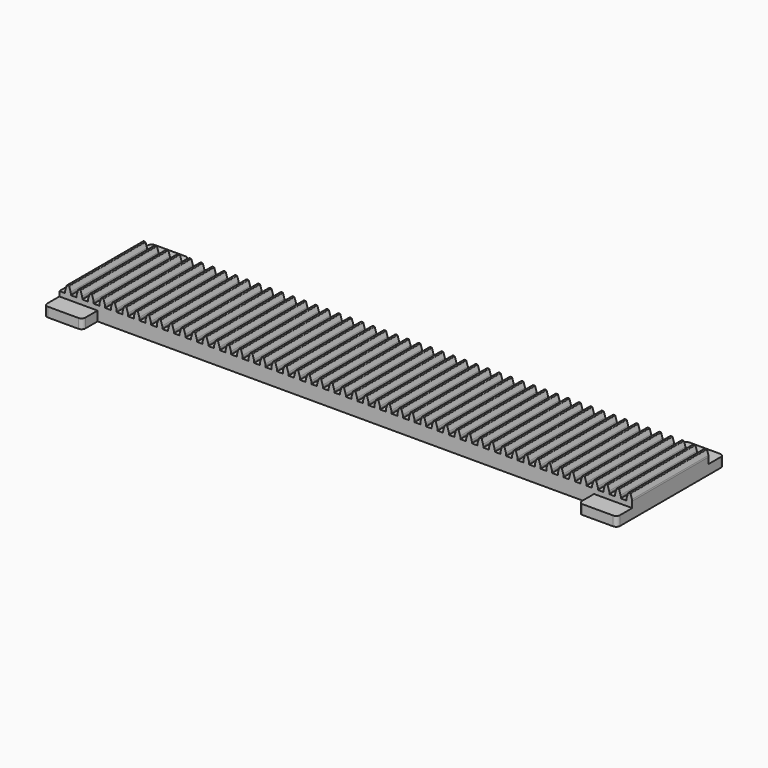
from build123d import *

# Parameters (mm, degrees)
F1_DEPTH = 127
F2_W     = 50.8
F2_H     = 12.7
F3_DEPTH = 25.4
F4_W     = 50.8
F4_H     = 12.7
F5_DEPTH = 25.4
F6_R     = 5.08


with BuildPart() as f1:
    # F0 (on Front) → F1 (new body)
    with BuildSketch(Plane.XZ):
        Polygon((7.62, 0), (0, 0), (0, -19.05), (762, -19.05), (762, 0), (754.38, 0), (746.76, 0), (739.14, 0), (731.52, 0), (723.9, 0), (716.28, 0), (708.66, 0), (701.04, 0), (693.42, 0), (685.8, 0), (678.18, 0), (670.56, 0), (662.94, 0), (655.32, 0), (647.7, 0), (640.08, 0), (632.46, 0), (624.84, 0), (617.22, 0), (609.6, 0), (601.98, 0), (594.36, 0), (586.74, 0), (579.12, 0), (571.5, 0), (563.88, 0), (556.26, 0), (548.64, 0), (541.02, 0), (533.4, 0), (525.78, 0), (518.16, 0), (510.54, 0), (502.92, 0), (495.3, 0), (487.68, 0), (480.06, 0), (472.44, 0), (464.82, 0), (457.2, 0), (449.58, 0), (441.96, 0), (434.34, 0), (426.72, 0), (419.1, 0), (411.48, 0), (403.86, 0), (396.24, 0), (388.62, 0), (381, 0), (373.38, 0), (365.76, 0), (358.14, 0), (350.52, 0), (342.9, 0), (335.28, 0), (327.66, 0), (320.04, 0), (312.42, 0), (304.8, 0), (297.18, 0), (289.56, 0), (281.94, 0), (274.32, 0), (266.7, 0), (259.08, 0), (251.46, 0), (243.84, 0), (236.22, 0), (228.6, 0), (220.98, 0), (213.36, 0), (205.74, 0), (198.12, 0), (190.5, 0), (182.88, 0), (175.26, 0), (167.64, 0), (160.02, 0), (152.4, 0), (144.78, 0), (137.16, 0), (129.54, 0), (121.92, 0), (114.3, 0), (106.68, 0), (99.06, 0), (91.44, 0), (83.82, 0), (76.2, 0), (68.58, 0), (60.96, 0), (53.34, 0), (45.72, 0), (38.1, 0), (30.48, 0), (22.86, 0), (15.24, 0), align=None)
        with BuildLine():
            Line((7.62, 1.788722), (7.62, 0))
            Line((7.62, 0), (15.24, 0))
            Line((15.24, 0), (15.24, 1.788722))
            ThreePointArc((15.24, 1.788722), (15.165721, 2.757138), (14.944621, 3.702898))
            Line((14.944621, 3.702898), (13.077097, 9.609958))
            ThreePointArc((13.077097, 9.609958), (12.791675, 10.007775), (12.326324, 10.16))
            Line((12.326324, 10.16), (10.533676, 10.16))
            ThreePointArc((10.533676, 10.16), (10.068325, 10.007775), (9.782903, 9.609958))
            Line((9.782903, 9.609958), (7.915379, 3.702898))
            ThreePointArc((7.915379, 3.702898), (7.694279, 2.757138), (7.62, 1.788722))
        make_face()
        with BuildLine():
            Line((754.38, 0), (762, 0))
            Line((762, 0), (762, 1.788722))
            ThreePointArc((762, 1.788722), (761.925721, 2.757138), (761.704621, 3.702898))
            Line((761.704621, 3.702898), (759.837097, 9.609958))
            ThreePointArc((759.837097, 9.609958), (759.551675, 10.007775), (759.086324, 10.16))
            Line((759.086324, 10.16), (757.293676, 10.16))
            ThreePointArc((757.293676, 10.16), (756.828325, 10.007775), (756.542903, 9.609958))
            Line((756.542903, 9.609958), (754.675379, 3.702898))
            ThreePointArc((754.675379, 3.702898), (754.454279, 2.757138), (754.38, 1.788722))
            Line((754.38, 1.788722), (754.38, 0))
        make_face()
        with BuildLine():
            Line((22.86, 1.788722), (22.86, 0))
            Line((22.86, 0), (30.48, 0))
            Line((30.48, 0), (30.48, 1.788722))
            ThreePointArc((30.48, 1.788722), (30.405721, 2.757138), (30.184621, 3.702898))
            Line((30.184621, 3.702898), (28.317097, 9.609958))
            ThreePointArc((28.317097, 9.609958), (28.031675, 10.007775), (27.566324, 10.16))
            Line((27.566324, 10.16), (25.773676, 10.16))
            ThreePointArc((25.773676, 10.16), (25.308325, 10.007775), (25.022903, 9.609958))
            Line((25.022903, 9.609958), (23.155379, 3.702898))
            ThreePointArc((23.155379, 3.702898), (22.934279, 2.757138), (22.86, 1.788722))
        make_face()
        with BuildLine():
            Line((739.14, 0), (746.76, 0))
            Line((746.76, 0), (746.76, 1.788722))
            ThreePointArc((746.76, 1.788722), (746.685721, 2.757138), (746.464621, 3.702898))
            Line((746.464621, 3.702898), (744.597097, 9.609958))
            ThreePointArc((744.597097, 9.609958), (744.311675, 10.007775), (743.846324, 10.16))
            Line((743.846324, 10.16), (742.053676, 10.16))
            ThreePointArc((742.053676, 10.16), (741.588325, 10.007775), (741.302903, 9.609958))
            Line((741.302903, 9.609958), (739.435379, 3.702898))
            ThreePointArc((739.435379, 3.702898), (739.214279, 2.757138), (739.14, 1.788722))
            Line((739.14, 1.788722), (739.14, 0))
        make_face()
        with BuildLine():
            Line((38.1, 1.788722), (38.1, 0))
            Line((38.1, 0), (45.72, 0))
            Line((45.72, 0), (45.72, 1.788722))
            ThreePointArc((45.72, 1.788722), (45.645721, 2.757138), (45.424621, 3.702898))
            Line((45.424621, 3.702898), (43.557097, 9.609958))
            ThreePointArc((43.557097, 9.609958), (43.271675, 10.007775), (42.806324, 10.16))
            Line((42.806324, 10.16), (41.013676, 10.16))
            ThreePointArc((41.013676, 10.16), (40.548325, 10.007775), (40.262903, 9.609958))
            Line((40.262903, 9.609958), (38.395379, 3.702898))
            ThreePointArc((38.395379, 3.702898), (38.174279, 2.757138), (38.1, 1.788722))
        make_face()
        with BuildLine():
            Line((723.9, 0), (731.52, 0))
            Line((731.52, 0), (731.52, 1.788722))
            ThreePointArc((731.52, 1.788722), (731.445721, 2.757138), (731.224621, 3.702898))
            Line((731.224621, 3.702898), (729.357097, 9.609958))
            ThreePointArc((729.357097, 9.609958), (729.071675, 10.007775), (728.606324, 10.16))
            Line((728.606324, 10.16), (726.813676, 10.16))
            ThreePointArc((726.813676, 10.16), (726.348325, 10.007775), (726.062903, 9.609958))
            Line((726.062903, 9.609958), (724.195379, 3.702898))
            ThreePointArc((724.195379, 3.702898), (723.974279, 2.757138), (723.9, 1.788722))
            Line((723.9, 1.788722), (723.9, 0))
        make_face()
        with BuildLine():
            Line((53.34, 1.788722), (53.34, 0))
            Line((53.34, 0), (60.96, 0))
            Line((60.96, 0), (60.96, 1.788722))
            ThreePointArc((60.96, 1.788722), (60.885721, 2.757138), (60.664621, 3.702898))
            Line((60.664621, 3.702898), (58.797097, 9.609958))
            ThreePointArc((58.797097, 9.609958), (58.511675, 10.007775), (58.046324, 10.16))
            Line((58.046324, 10.16), (56.253676, 10.16))
            ThreePointArc((56.253676, 10.16), (55.788325, 10.007775), (55.502903, 9.609958))
            Line((55.502903, 9.609958), (53.635379, 3.702898))
            ThreePointArc((53.635379, 3.702898), (53.414279, 2.757138), (53.34, 1.788722))
        make_face()
        with BuildLine():
            Line((708.66, 0), (716.28, 0))
            Line((716.28, 0), (716.28, 1.788722))
            ThreePointArc((716.28, 1.788722), (716.205721, 2.757138), (715.984621, 3.702898))
            Line((715.984621, 3.702898), (714.117097, 9.609958))
            ThreePointArc((714.117097, 9.609958), (713.831675, 10.007775), (713.366324, 10.16))
            Line((713.366324, 10.16), (711.573676, 10.16))
            ThreePointArc((711.573676, 10.16), (711.108325, 10.007775), (710.822903, 9.609958))
            Line((710.822903, 9.609958), (708.955379, 3.702898))
            ThreePointArc((708.955379, 3.702898), (708.734279, 2.757138), (708.66, 1.788722))
            Line((708.66, 1.788722), (708.66, 0))
        make_face()
        with BuildLine():
            Line((68.58, 1.788722), (68.58, 0))
            Line((68.58, 0), (76.2, 0))
            Line((76.2, 0), (76.2, 1.788722))
            ThreePointArc((76.2, 1.788722), (76.125721, 2.757138), (75.904621, 3.702898))
            Line((75.904621, 3.702898), (74.037097, 9.609958))
            ThreePointArc((74.037097, 9.609958), (73.751675, 10.007775), (73.286324, 10.16))
            Line((73.286324, 10.16), (71.493676, 10.16))
            ThreePointArc((71.493676, 10.16), (71.028325, 10.007775), (70.742903, 9.609958))
            Line((70.742903, 9.609958), (68.875379, 3.702898))
            ThreePointArc((68.875379, 3.702898), (68.654279, 2.757138), (68.58, 1.788722))
        make_face()
        with BuildLine():
            Line((693.42, 0), (701.04, 0))
            Line((701.04, 0), (701.04, 1.788722))
            ThreePointArc((701.04, 1.788722), (700.965721, 2.757138), (700.744621, 3.702898))
            Line((700.744621, 3.702898), (698.877097, 9.609958))
            ThreePointArc((698.877097, 9.609958), (698.591675, 10.007775), (698.126324, 10.16))
            Line((698.126324, 10.16), (696.333676, 10.16))
            ThreePointArc((696.333676, 10.16), (695.868325, 10.007775), (695.582903, 9.609958))
            Line((695.582903, 9.609958), (693.715379, 3.702898))
            ThreePointArc((693.715379, 3.702898), (693.494279, 2.757138), (693.42, 1.788722))
            Line((693.42, 1.788722), (693.42, 0))
        make_face()
        with BuildLine():
            Line((83.82, 1.788722), (83.82, 0))
            Line((83.82, 0), (91.44, 0))
            Line((91.44, 0), (91.44, 1.788722))
            ThreePointArc((91.44, 1.788722), (91.365721, 2.757138), (91.144621, 3.702898))
            Line((91.144621, 3.702898), (89.277097, 9.609958))
            ThreePointArc((89.277097, 9.609958), (88.991675, 10.007775), (88.526324, 10.16))
            Line((88.526324, 10.16), (86.733676, 10.16))
            ThreePointArc((86.733676, 10.16), (86.268325, 10.007775), (85.982903, 9.609958))
            Line((85.982903, 9.609958), (84.115379, 3.702898))
            ThreePointArc((84.115379, 3.702898), (83.894279, 2.757138), (83.82, 1.788722))
        make_face()
        with BuildLine():
            Line((678.18, 0), (685.8, 0))
            Line((685.8, 0), (685.8, 1.788722))
            ThreePointArc((685.8, 1.788722), (685.725721, 2.757138), (685.504621, 3.702898))
            Line((685.504621, 3.702898), (683.637097, 9.609958))
            ThreePointArc((683.637097, 9.609958), (683.351675, 10.007775), (682.886324, 10.16))
            Line((682.886324, 10.16), (681.093676, 10.16))
            ThreePointArc((681.093676, 10.16), (680.628325, 10.007775), (680.342903, 9.609958))
            Line((680.342903, 9.609958), (678.475379, 3.702898))
            ThreePointArc((678.475379, 3.702898), (678.254279, 2.757138), (678.18, 1.788722))
            Line((678.18, 1.788722), (678.18, 0))
        make_face()
        with BuildLine():
            Line((99.06, 1.788722), (99.06, 0))
            Line((99.06, 0), (106.68, 0))
            Line((106.68, 0), (106.68, 1.788722))
            ThreePointArc((106.68, 1.788722), (106.605721, 2.757138), (106.384621, 3.702898))
            Line((106.384621, 3.702898), (104.517097, 9.609958))
            ThreePointArc((104.517097, 9.609958), (104.231675, 10.007775), (103.766324, 10.16))
            Line((103.766324, 10.16), (101.973676, 10.16))
            ThreePointArc((101.973676, 10.16), (101.508325, 10.007775), (101.222903, 9.609958))
            Line((101.222903, 9.609958), (99.355379, 3.702898))
            ThreePointArc((99.355379, 3.702898), (99.134279, 2.757138), (99.06, 1.788722))
        make_face()
        with BuildLine():
            Line((662.94, 0), (670.56, 0))
            Line((670.56, 0), (670.56, 1.788722))
            ThreePointArc((670.56, 1.788722), (670.485721, 2.757138), (670.264621, 3.702898))
            Line((670.264621, 3.702898), (668.397097, 9.609958))
            ThreePointArc((668.397097, 9.609958), (668.111675, 10.007775), (667.646324, 10.16))
            Line((667.646324, 10.16), (665.853676, 10.16))
            ThreePointArc((665.853676, 10.16), (665.388325, 10.007775), (665.102903, 9.609958))
            Line((665.102903, 9.609958), (663.235379, 3.702898))
            ThreePointArc((663.235379, 3.702898), (663.014279, 2.757138), (662.94, 1.788722))
            Line((662.94, 1.788722), (662.94, 0))
        make_face()
        with BuildLine():
            Line((114.3, 1.788722), (114.3, 0))
            Line((114.3, 0), (121.92, 0))
            Line((121.92, 0), (121.92, 1.788722))
            ThreePointArc((121.92, 1.788722), (121.845721, 2.757138), (121.624621, 3.702898))
            Line((121.624621, 3.702898), (119.757097, 9.609958))
            ThreePointArc((119.757097, 9.609958), (119.471675, 10.007775), (119.006324, 10.16))
            Line((119.006324, 10.16), (117.213676, 10.16))
            ThreePointArc((117.213676, 10.16), (116.748325, 10.007775), (116.462903, 9.609958))
            Line((116.462903, 9.609958), (114.595379, 3.702898))
            ThreePointArc((114.595379, 3.702898), (114.374279, 2.757138), (114.3, 1.788722))
        make_face()
        with BuildLine():
            Line((647.7, 0), (655.32, 0))
            Line((655.32, 0), (655.32, 1.788722))
            ThreePointArc((655.32, 1.788722), (655.245721, 2.757138), (655.024621, 3.702898))
            Line((655.024621, 3.702898), (653.157097, 9.609958))
            ThreePointArc((653.157097, 9.609958), (652.871675, 10.007775), (652.406324, 10.16))
            Line((652.406324, 10.16), (650.613676, 10.16))
            ThreePointArc((650.613676, 10.16), (650.148325, 10.007775), (649.862903, 9.609958))
            Line((649.862903, 9.609958), (647.995379, 3.702898))
            ThreePointArc((647.995379, 3.702898), (647.774279, 2.757138), (647.7, 1.788722))
            Line((647.7, 1.788722), (647.7, 0))
        make_face()
        with BuildLine():
            Line((129.54, 1.788722), (129.54, 0))
            Line((129.54, 0), (137.16, 0))
            Line((137.16, 0), (137.16, 1.788722))
            ThreePointArc((137.16, 1.788722), (137.085721, 2.757138), (136.864621, 3.702898))
            Line((136.864621, 3.702898), (134.997097, 9.609958))
            ThreePointArc((134.997097, 9.609958), (134.711675, 10.007775), (134.246324, 10.16))
            Line((134.246324, 10.16), (132.453676, 10.16))
            ThreePointArc((132.453676, 10.16), (131.988325, 10.007775), (131.702903, 9.609958))
            Line((131.702903, 9.609958), (129.835379, 3.702898))
            ThreePointArc((129.835379, 3.702898), (129.614279, 2.757138), (129.54, 1.788722))
        make_face()
        with BuildLine():
            Line((632.46, 0), (640.08, 0))
            Line((640.08, 0), (640.08, 1.788722))
            ThreePointArc((640.08, 1.788722), (640.005721, 2.757138), (639.784621, 3.702898))
            Line((639.784621, 3.702898), (637.917097, 9.609958))
            ThreePointArc((637.917097, 9.609958), (637.631675, 10.007775), (637.166324, 10.16))
            Line((637.166324, 10.16), (635.373676, 10.16))
            ThreePointArc((635.373676, 10.16), (634.908325, 10.007775), (634.622903, 9.609958))
            Line((634.622903, 9.609958), (632.755379, 3.702898))
            ThreePointArc((632.755379, 3.702898), (632.534279, 2.757138), (632.46, 1.788722))
            Line((632.46, 1.788722), (632.46, 0))
        make_face()
        with BuildLine():
            Line((144.78, 1.788722), (144.78, 0))
            Line((144.78, 0), (152.4, 0))
            Line((152.4, 0), (152.4, 1.788722))
            ThreePointArc((152.4, 1.788722), (152.325721, 2.757138), (152.104621, 3.702898))
            Line((152.104621, 3.702898), (150.237097, 9.609958))
            ThreePointArc((150.237097, 9.609958), (149.951675, 10.007775), (149.486324, 10.16))
            Line((149.486324, 10.16), (147.693676, 10.16))
            ThreePointArc((147.693676, 10.16), (147.228325, 10.007775), (146.942903, 9.609958))
            Line((146.942903, 9.609958), (145.075379, 3.702898))
            ThreePointArc((145.075379, 3.702898), (144.854279, 2.757138), (144.78, 1.788722))
        make_face()
        with BuildLine():
            Line((617.22, 0), (624.84, 0))
            Line((624.84, 0), (624.84, 1.788722))
            ThreePointArc((624.84, 1.788722), (624.765721, 2.757138), (624.544621, 3.702898))
            Line((624.544621, 3.702898), (622.677097, 9.609958))
            ThreePointArc((622.677097, 9.609958), (622.391675, 10.007775), (621.926324, 10.16))
            Line((621.926324, 10.16), (620.133676, 10.16))
            ThreePointArc((620.133676, 10.16), (619.668325, 10.007775), (619.382903, 9.609958))
            Line((619.382903, 9.609958), (617.515379, 3.702898))
            ThreePointArc((617.515379, 3.702898), (617.294279, 2.757138), (617.22, 1.788722))
            Line((617.22, 1.788722), (617.22, 0))
        make_face()
        with BuildLine():
            Line((160.02, 1.788722), (160.02, 0))
            Line((160.02, 0), (167.64, 0))
            Line((167.64, 0), (167.64, 1.788722))
            ThreePointArc((167.64, 1.788722), (167.565721, 2.757138), (167.344621, 3.702898))
            Line((167.344621, 3.702898), (165.477097, 9.609958))
            ThreePointArc((165.477097, 9.609958), (165.191675, 10.007775), (164.726324, 10.16))
            Line((164.726324, 10.16), (162.933676, 10.16))
            ThreePointArc((162.933676, 10.16), (162.468325, 10.007775), (162.182903, 9.609958))
            Line((162.182903, 9.609958), (160.315379, 3.702898))
            ThreePointArc((160.315379, 3.702898), (160.094279, 2.757138), (160.02, 1.788722))
        make_face()
        with BuildLine():
            Line((601.98, 0), (609.6, 0))
            Line((609.6, 0), (609.6, 1.788722))
            ThreePointArc((609.6, 1.788722), (609.525721, 2.757138), (609.304621, 3.702898))
            Line((609.304621, 3.702898), (607.437097, 9.609958))
            ThreePointArc((607.437097, 9.609958), (607.151675, 10.007775), (606.686324, 10.16))
            Line((606.686324, 10.16), (604.893676, 10.16))
            ThreePointArc((604.893676, 10.16), (604.428325, 10.007775), (604.142903, 9.609958))
            Line((604.142903, 9.609958), (602.275379, 3.702898))
            ThreePointArc((602.275379, 3.702898), (602.054279, 2.757138), (601.98, 1.788722))
            Line((601.98, 1.788722), (601.98, 0))
        make_face()
        with BuildLine():
            Line((175.26, 1.788722), (175.26, 0))
            Line((175.26, 0), (182.88, 0))
            Line((182.88, 0), (182.88, 1.788722))
            ThreePointArc((182.88, 1.788722), (182.805721, 2.757138), (182.584621, 3.702898))
            Line((182.584621, 3.702898), (180.717097, 9.609958))
            ThreePointArc((180.717097, 9.609958), (180.431675, 10.007775), (179.966324, 10.16))
            Line((179.966324, 10.16), (178.173676, 10.16))
            ThreePointArc((178.173676, 10.16), (177.708325, 10.007775), (177.422903, 9.609958))
            Line((177.422903, 9.609958), (175.555379, 3.702898))
            ThreePointArc((175.555379, 3.702898), (175.334279, 2.757138), (175.26, 1.788722))
        make_face()
        with BuildLine():
            Line((586.74, 0), (594.36, 0))
            Line((594.36, 0), (594.36, 1.788722))
            ThreePointArc((594.36, 1.788722), (594.285721, 2.757138), (594.064621, 3.702898))
            Line((594.064621, 3.702898), (592.197097, 9.609958))
            ThreePointArc((592.197097, 9.609958), (591.911675, 10.007775), (591.446324, 10.16))
            Line((591.446324, 10.16), (589.653676, 10.16))
            ThreePointArc((589.653676, 10.16), (589.188325, 10.007775), (588.902903, 9.609958))
            Line((588.902903, 9.609958), (587.035379, 3.702898))
            ThreePointArc((587.035379, 3.702898), (586.814279, 2.757138), (586.74, 1.788722))
            Line((586.74, 1.788722), (586.74, 0))
        make_face()
        with BuildLine():
            Line((190.5, 1.788722), (190.5, 0))
            Line((190.5, 0), (198.12, 0))
            Line((198.12, 0), (198.12, 1.788722))
            ThreePointArc((198.12, 1.788722), (198.045721, 2.757138), (197.824621, 3.702898))
            Line((197.824621, 3.702898), (195.957097, 9.609958))
            ThreePointArc((195.957097, 9.609958), (195.671675, 10.007775), (195.206324, 10.16))
            Line((195.206324, 10.16), (193.413676, 10.16))
            ThreePointArc((193.413676, 10.16), (192.948325, 10.007775), (192.662903, 9.609958))
            Line((192.662903, 9.609958), (190.795379, 3.702898))
            ThreePointArc((190.795379, 3.702898), (190.574279, 2.757138), (190.5, 1.788722))
        make_face()
        with BuildLine():
            Line((571.5, 0), (579.12, 0))
            Line((579.12, 0), (579.12, 1.788722))
            ThreePointArc((579.12, 1.788722), (579.045721, 2.757138), (578.824621, 3.702898))
            Line((578.824621, 3.702898), (576.957097, 9.609958))
            ThreePointArc((576.957097, 9.609958), (576.671675, 10.007775), (576.206324, 10.16))
            Line((576.206324, 10.16), (574.413676, 10.16))
            ThreePointArc((574.413676, 10.16), (573.948325, 10.007775), (573.662903, 9.609958))
            Line((573.662903, 9.609958), (571.795379, 3.702898))
            ThreePointArc((571.795379, 3.702898), (571.574279, 2.757138), (571.5, 1.788722))
            Line((571.5, 1.788722), (571.5, 0))
        make_face()
        with BuildLine():
            Line((205.74, 1.788722), (205.74, 0))
            Line((205.74, 0), (213.36, 0))
            Line((213.36, 0), (213.36, 1.788722))
            ThreePointArc((213.36, 1.788722), (213.285721, 2.757138), (213.064621, 3.702898))
            Line((213.064621, 3.702898), (211.197097, 9.609958))
            ThreePointArc((211.197097, 9.609958), (210.911675, 10.007775), (210.446324, 10.16))
            Line((210.446324, 10.16), (208.653676, 10.16))
            ThreePointArc((208.653676, 10.16), (208.188325, 10.007775), (207.902903, 9.609958))
            Line((207.902903, 9.609958), (206.035379, 3.702898))
            ThreePointArc((206.035379, 3.702898), (205.814279, 2.757138), (205.74, 1.788722))
        make_face()
        with BuildLine():
            Line((556.26, 0), (563.88, 0))
            Line((563.88, 0), (563.88, 1.788722))
            ThreePointArc((563.88, 1.788722), (563.805721, 2.757138), (563.584621, 3.702898))
            Line((563.584621, 3.702898), (561.717097, 9.609958))
            ThreePointArc((561.717097, 9.609958), (561.431675, 10.007775), (560.966324, 10.16))
            Line((560.966324, 10.16), (559.173676, 10.16))
            ThreePointArc((559.173676, 10.16), (558.708325, 10.007775), (558.422903, 9.609958))
            Line((558.422903, 9.609958), (556.555379, 3.702898))
            ThreePointArc((556.555379, 3.702898), (556.334279, 2.757138), (556.26, 1.788722))
            Line((556.26, 1.788722), (556.26, 0))
        make_face()
        with BuildLine():
            Line((220.98, 1.788722), (220.98, 0))
            Line((220.98, 0), (228.6, 0))
            Line((228.6, 0), (228.6, 1.788722))
            ThreePointArc((228.6, 1.788722), (228.525721, 2.757138), (228.304621, 3.702898))
            Line((228.304621, 3.702898), (226.437097, 9.609958))
            ThreePointArc((226.437097, 9.609958), (226.151675, 10.007775), (225.686324, 10.16))
            Line((225.686324, 10.16), (223.893676, 10.16))
            ThreePointArc((223.893676, 10.16), (223.428325, 10.007775), (223.142903, 9.609958))
            Line((223.142903, 9.609958), (221.275379, 3.702898))
            ThreePointArc((221.275379, 3.702898), (221.054279, 2.757138), (220.98, 1.788722))
        make_face()
        with BuildLine():
            Line((541.02, 0), (548.64, 0))
            Line((548.64, 0), (548.64, 1.788722))
            ThreePointArc((548.64, 1.788722), (548.565721, 2.757138), (548.344621, 3.702898))
            Line((548.344621, 3.702898), (546.477097, 9.609958))
            ThreePointArc((546.477097, 9.609958), (546.191675, 10.007775), (545.726324, 10.16))
            Line((545.726324, 10.16), (543.933676, 10.16))
            ThreePointArc((543.933676, 10.16), (543.468325, 10.007775), (543.182903, 9.609958))
            Line((543.182903, 9.609958), (541.315379, 3.702898))
            ThreePointArc((541.315379, 3.702898), (541.094279, 2.757138), (541.02, 1.788722))
            Line((541.02, 1.788722), (541.02, 0))
        make_face()
        with BuildLine():
            Line((236.22, 1.788722), (236.22, 0))
            Line((236.22, 0), (243.84, 0))
            Line((243.84, 0), (243.84, 1.788722))
            ThreePointArc((243.84, 1.788722), (243.765721, 2.757138), (243.544621, 3.702898))
            Line((243.544621, 3.702898), (241.677097, 9.609958))
            ThreePointArc((241.677097, 9.609958), (241.391675, 10.007775), (240.926324, 10.16))
            Line((240.926324, 10.16), (239.133676, 10.16))
            ThreePointArc((239.133676, 10.16), (238.668325, 10.007775), (238.382903, 9.609958))
            Line((238.382903, 9.609958), (236.515379, 3.702898))
            ThreePointArc((236.515379, 3.702898), (236.294279, 2.757138), (236.22, 1.788722))
        make_face()
        with BuildLine():
            Line((525.78, 0), (533.4, 0))
            Line((533.4, 0), (533.4, 1.788722))
            ThreePointArc((533.4, 1.788722), (533.325721, 2.757138), (533.104621, 3.702898))
            Line((533.104621, 3.702898), (531.237097, 9.609958))
            ThreePointArc((531.237097, 9.609958), (530.951675, 10.007775), (530.486324, 10.16))
            Line((530.486324, 10.16), (528.693676, 10.16))
            ThreePointArc((528.693676, 10.16), (528.228325, 10.007775), (527.942903, 9.609958))
            Line((527.942903, 9.609958), (526.075379, 3.702898))
            ThreePointArc((526.075379, 3.702898), (525.854279, 2.757138), (525.78, 1.788722))
            Line((525.78, 1.788722), (525.78, 0))
        make_face()
        with BuildLine():
            Line((251.46, 1.788722), (251.46, 0))
            Line((251.46, 0), (259.08, 0))
            Line((259.08, 0), (259.08, 1.788722))
            ThreePointArc((259.08, 1.788722), (259.005721, 2.757138), (258.784621, 3.702898))
            Line((258.784621, 3.702898), (256.917097, 9.609958))
            ThreePointArc((256.917097, 9.609958), (256.631675, 10.007775), (256.166324, 10.16))
            Line((256.166324, 10.16), (254.373676, 10.16))
            ThreePointArc((254.373676, 10.16), (253.908325, 10.007775), (253.622903, 9.609958))
            Line((253.622903, 9.609958), (251.755379, 3.702898))
            ThreePointArc((251.755379, 3.702898), (251.534279, 2.757138), (251.46, 1.788722))
        make_face()
        with BuildLine():
            Line((510.54, 0), (518.16, 0))
            Line((518.16, 0), (518.16, 1.788722))
            ThreePointArc((518.16, 1.788722), (518.085721, 2.757138), (517.864621, 3.702898))
            Line((517.864621, 3.702898), (515.997097, 9.609958))
            ThreePointArc((515.997097, 9.609958), (515.711675, 10.007775), (515.246324, 10.16))
            Line((515.246324, 10.16), (513.453676, 10.16))
            ThreePointArc((513.453676, 10.16), (512.988325, 10.007775), (512.702903, 9.609958))
            Line((512.702903, 9.609958), (510.835379, 3.702898))
            ThreePointArc((510.835379, 3.702898), (510.614279, 2.757138), (510.54, 1.788722))
            Line((510.54, 1.788722), (510.54, 0))
        make_face()
        with BuildLine():
            Line((266.7, 1.788722), (266.7, 0))
            Line((266.7, 0), (274.32, 0))
            Line((274.32, 0), (274.32, 1.788722))
            ThreePointArc((274.32, 1.788722), (274.245721, 2.757138), (274.024621, 3.702898))
            Line((274.024621, 3.702898), (272.157097, 9.609958))
            ThreePointArc((272.157097, 9.609958), (271.871675, 10.007775), (271.406324, 10.16))
            Line((271.406324, 10.16), (269.613676, 10.16))
            ThreePointArc((269.613676, 10.16), (269.148325, 10.007775), (268.862903, 9.609958))
            Line((268.862903, 9.609958), (266.995379, 3.702898))
            ThreePointArc((266.995379, 3.702898), (266.774279, 2.757138), (266.7, 1.788722))
        make_face()
        with BuildLine():
            Line((495.3, 0), (502.92, 0))
            Line((502.92, 0), (502.92, 1.788722))
            ThreePointArc((502.92, 1.788722), (502.845721, 2.757138), (502.624621, 3.702898))
            Line((502.624621, 3.702898), (500.757097, 9.609958))
            ThreePointArc((500.757097, 9.609958), (500.471675, 10.007775), (500.006324, 10.16))
            Line((500.006324, 10.16), (498.213676, 10.16))
            ThreePointArc((498.213676, 10.16), (497.748325, 10.007775), (497.462903, 9.609958))
            Line((497.462903, 9.609958), (495.595379, 3.702898))
            ThreePointArc((495.595379, 3.702898), (495.374279, 2.757138), (495.3, 1.788722))
            Line((495.3, 1.788722), (495.3, 0))
        make_face()
        with BuildLine():
            Line((281.94, 1.788722), (281.94, 0))
            Line((281.94, 0), (289.56, 0))
            Line((289.56, 0), (289.56, 1.788722))
            ThreePointArc((289.56, 1.788722), (289.485721, 2.757138), (289.264621, 3.702898))
            Line((289.264621, 3.702898), (287.397097, 9.609958))
            ThreePointArc((287.397097, 9.609958), (287.111675, 10.007775), (286.646324, 10.16))
            Line((286.646324, 10.16), (284.853676, 10.16))
            ThreePointArc((284.853676, 10.16), (284.388325, 10.007775), (284.102903, 9.609958))
            Line((284.102903, 9.609958), (282.235379, 3.702898))
            ThreePointArc((282.235379, 3.702898), (282.014279, 2.757138), (281.94, 1.788722))
        make_face()
        with BuildLine():
            Line((480.06, 0), (487.68, 0))
            Line((487.68, 0), (487.68, 1.788722))
            ThreePointArc((487.68, 1.788722), (487.605721, 2.757138), (487.384621, 3.702898))
            Line((487.384621, 3.702898), (485.517097, 9.609958))
            ThreePointArc((485.517097, 9.609958), (485.231675, 10.007775), (484.766324, 10.16))
            Line((484.766324, 10.16), (482.973676, 10.16))
            ThreePointArc((482.973676, 10.16), (482.508325, 10.007775), (482.222903, 9.609958))
            Line((482.222903, 9.609958), (480.355379, 3.702898))
            ThreePointArc((480.355379, 3.702898), (480.134279, 2.757138), (480.06, 1.788722))
            Line((480.06, 1.788722), (480.06, 0))
        make_face()
        with BuildLine():
            Line((297.18, 1.788722), (297.18, 0))
            Line((297.18, 0), (304.8, 0))
            Line((304.8, 0), (304.8, 1.788722))
            ThreePointArc((304.8, 1.788722), (304.725721, 2.757138), (304.504621, 3.702898))
            Line((304.504621, 3.702898), (302.637097, 9.609958))
            ThreePointArc((302.637097, 9.609958), (302.351675, 10.007775), (301.886324, 10.16))
            Line((301.886324, 10.16), (300.093676, 10.16))
            ThreePointArc((300.093676, 10.16), (299.628325, 10.007775), (299.342903, 9.609958))
            Line((299.342903, 9.609958), (297.475379, 3.702898))
            ThreePointArc((297.475379, 3.702898), (297.254279, 2.757138), (297.18, 1.788722))
        make_face()
        with BuildLine():
            Line((464.82, 0), (472.44, 0))
            Line((472.44, 0), (472.44, 1.788722))
            ThreePointArc((472.44, 1.788722), (472.365721, 2.757138), (472.144621, 3.702898))
            Line((472.144621, 3.702898), (470.277097, 9.609958))
            ThreePointArc((470.277097, 9.609958), (469.991675, 10.007775), (469.526324, 10.16))
            Line((469.526324, 10.16), (467.733676, 10.16))
            ThreePointArc((467.733676, 10.16), (467.268325, 10.007775), (466.982903, 9.609958))
            Line((466.982903, 9.609958), (465.115379, 3.702898))
            ThreePointArc((465.115379, 3.702898), (464.894279, 2.757138), (464.82, 1.788722))
            Line((464.82, 1.788722), (464.82, 0))
        make_face()
        with BuildLine():
            Line((312.42, 1.788722), (312.42, 0))
            Line((312.42, 0), (320.04, 0))
            Line((320.04, 0), (320.04, 1.788722))
            ThreePointArc((320.04, 1.788722), (319.965721, 2.757138), (319.744621, 3.702898))
            Line((319.744621, 3.702898), (317.877097, 9.609958))
            ThreePointArc((317.877097, 9.609958), (317.591675, 10.007775), (317.126324, 10.16))
            Line((317.126324, 10.16), (315.333676, 10.16))
            ThreePointArc((315.333676, 10.16), (314.868325, 10.007775), (314.582903, 9.609958))
            Line((314.582903, 9.609958), (312.715379, 3.702898))
            ThreePointArc((312.715379, 3.702898), (312.494279, 2.757138), (312.42, 1.788722))
        make_face()
        with BuildLine():
            Line((449.58, 0), (457.2, 0))
            Line((457.2, 0), (457.2, 1.788722))
            ThreePointArc((457.2, 1.788722), (457.125721, 2.757138), (456.904621, 3.702898))
            Line((456.904621, 3.702898), (455.037097, 9.609958))
            ThreePointArc((455.037097, 9.609958), (454.751675, 10.007775), (454.286324, 10.16))
            Line((454.286324, 10.16), (452.493676, 10.16))
            ThreePointArc((452.493676, 10.16), (452.028325, 10.007775), (451.742903, 9.609958))
            Line((451.742903, 9.609958), (449.875379, 3.702898))
            ThreePointArc((449.875379, 3.702898), (449.654279, 2.757138), (449.58, 1.788722))
            Line((449.58, 1.788722), (449.58, 0))
        make_face()
        with BuildLine():
            Line((327.66, 1.788722), (327.66, 0))
            Line((327.66, 0), (335.28, 0))
            Line((335.28, 0), (335.28, 1.788722))
            ThreePointArc((335.28, 1.788722), (335.205721, 2.757138), (334.984621, 3.702898))
            Line((334.984621, 3.702898), (333.117097, 9.609958))
            ThreePointArc((333.117097, 9.609958), (332.831675, 10.007775), (332.366324, 10.16))
            Line((332.366324, 10.16), (330.573676, 10.16))
            ThreePointArc((330.573676, 10.16), (330.108325, 10.007775), (329.822903, 9.609958))
            Line((329.822903, 9.609958), (327.955379, 3.702898))
            ThreePointArc((327.955379, 3.702898), (327.734279, 2.757138), (327.66, 1.788722))
        make_face()
        with BuildLine():
            Line((434.34, 0), (441.96, 0))
            Line((441.96, 0), (441.96, 1.788722))
            ThreePointArc((441.96, 1.788722), (441.885721, 2.757138), (441.664621, 3.702898))
            Line((441.664621, 3.702898), (439.797097, 9.609958))
            ThreePointArc((439.797097, 9.609958), (439.511675, 10.007775), (439.046324, 10.16))
            Line((439.046324, 10.16), (437.253676, 10.16))
            ThreePointArc((437.253676, 10.16), (436.788325, 10.007775), (436.502903, 9.609958))
            Line((436.502903, 9.609958), (434.635379, 3.702898))
            ThreePointArc((434.635379, 3.702898), (434.414279, 2.757138), (434.34, 1.788722))
            Line((434.34, 1.788722), (434.34, 0))
        make_face()
        with BuildLine():
            Line((342.9, 1.788722), (342.9, 0))
            Line((342.9, 0), (350.52, 0))
            Line((350.52, 0), (350.52, 1.788722))
            ThreePointArc((350.52, 1.788722), (350.445721, 2.757138), (350.224621, 3.702898))
            Line((350.224621, 3.702898), (348.357097, 9.609958))
            ThreePointArc((348.357097, 9.609958), (348.071675, 10.007775), (347.606324, 10.16))
            Line((347.606324, 10.16), (345.813676, 10.16))
            ThreePointArc((345.813676, 10.16), (345.348325, 10.007775), (345.062903, 9.609958))
            Line((345.062903, 9.609958), (343.195379, 3.702898))
            ThreePointArc((343.195379, 3.702898), (342.974279, 2.757138), (342.9, 1.788722))
        make_face()
        with BuildLine():
            Line((419.1, 0), (426.72, 0))
            Line((426.72, 0), (426.72, 1.788722))
            ThreePointArc((426.72, 1.788722), (426.645721, 2.757138), (426.424621, 3.702898))
            Line((426.424621, 3.702898), (424.557097, 9.609958))
            ThreePointArc((424.557097, 9.609958), (424.271675, 10.007775), (423.806324, 10.16))
            Line((423.806324, 10.16), (422.013676, 10.16))
            ThreePointArc((422.013676, 10.16), (421.548325, 10.007775), (421.262903, 9.609958))
            Line((421.262903, 9.609958), (419.395379, 3.702898))
            ThreePointArc((419.395379, 3.702898), (419.174279, 2.757138), (419.1, 1.788722))
            Line((419.1, 1.788722), (419.1, 0))
        make_face()
        with BuildLine():
            Line((358.14, 1.788722), (358.14, 0))
            Line((358.14, 0), (365.76, 0))
            Line((365.76, 0), (365.76, 1.788722))
            ThreePointArc((365.76, 1.788722), (365.685721, 2.757138), (365.464621, 3.702898))
            Line((365.464621, 3.702898), (363.597097, 9.609958))
            ThreePointArc((363.597097, 9.609958), (363.311675, 10.007775), (362.846324, 10.16))
            Line((362.846324, 10.16), (361.053676, 10.16))
            ThreePointArc((361.053676, 10.16), (360.588325, 10.007775), (360.302903, 9.609958))
            Line((360.302903, 9.609958), (358.435379, 3.702898))
            ThreePointArc((358.435379, 3.702898), (358.214279, 2.757138), (358.14, 1.788722))
        make_face()
        with BuildLine():
            Line((403.86, 0), (411.48, 0))
            Line((411.48, 0), (411.48, 1.788722))
            ThreePointArc((411.48, 1.788722), (411.405721, 2.757138), (411.184621, 3.702898))
            Line((411.184621, 3.702898), (409.317097, 9.609958))
            ThreePointArc((409.317097, 9.609958), (409.031675, 10.007775), (408.566324, 10.16))
            Line((408.566324, 10.16), (406.773676, 10.16))
            ThreePointArc((406.773676, 10.16), (406.308325, 10.007775), (406.022903, 9.609958))
            Line((406.022903, 9.609958), (404.155379, 3.702898))
            ThreePointArc((404.155379, 3.702898), (403.934279, 2.757138), (403.86, 1.788722))
            Line((403.86, 1.788722), (403.86, 0))
        make_face()
        with BuildLine():
            Line((373.38, 1.788722), (373.38, 0))
            Line((373.38, 0), (381, 0))
            Line((381, 0), (381, 1.788722))
            ThreePointArc((381, 1.788722), (380.925721, 2.757138), (380.704621, 3.702898))
            Line((380.704621, 3.702898), (378.837097, 9.609958))
            ThreePointArc((378.837097, 9.609958), (378.551675, 10.007775), (378.086324, 10.16))
            Line((378.086324, 10.16), (376.293676, 10.16))
            ThreePointArc((376.293676, 10.16), (375.828325, 10.007775), (375.542903, 9.609958))
            Line((375.542903, 9.609958), (373.675379, 3.702898))
            ThreePointArc((373.675379, 3.702898), (373.454279, 2.757138), (373.38, 1.788722))
        make_face()
        with BuildLine():
            Line((388.62, 0), (396.24, 0))
            Line((396.24, 0), (396.24, 1.788722))
            ThreePointArc((396.24, 1.788722), (396.165721, 2.757138), (395.944621, 3.702898))
            Line((395.944621, 3.702898), (394.077097, 9.609958))
            ThreePointArc((394.077097, 9.609958), (393.791675, 10.007775), (393.326324, 10.16))
            Line((393.326324, 10.16), (391.533676, 10.16))
            ThreePointArc((391.533676, 10.16), (391.068325, 10.007775), (390.782903, 9.609958))
            Line((390.782903, 9.609958), (388.915379, 3.702898))
            ThreePointArc((388.915379, 3.702898), (388.694279, 2.757138), (388.62, 1.788722))
            Line((388.62, 1.788722), (388.62, 0))
        make_face()
    extrude(amount=F1_DEPTH)

    # F2 (on face) → F3 (join)
    with BuildSketch(Plane.XZ):
        with Locations((25.4, -12.7)):
            Rectangle(F2_W, F2_H)
        with Locations((736.6, -12.7)):
            Rectangle(F2_W, F2_H)
    extrude(amount=-F3_DEPTH)

    # F4 (on face) → F5 (join)
    with BuildSketch(Plane.XZ.offset(127)):
        with Locations((25.4, -12.7)):
            Rectangle(F4_W, F4_H)
        with Locations((736.6, -12.7)):
            Rectangle(F4_W, F4_H)
    extrude(amount=F5_DEPTH)

    # F6
    f6_edges = [f1.edges().sort_by_distance(p)[0] for p in [
        (0, -152.4, -12.7),
        (50.8, -152.4, -12.7),
        (762, -152.4, -12.7),
        (711.2, -152.4, -12.7),
        (762, 25.4, -12.7),
        (711.2, 25.4, -12.7),
        (50.8, 25.4, -12.7),
        (0, 25.4, -12.7),
    ]]
    fillet(f6_edges, radius=F6_R)


solid = f1.part
